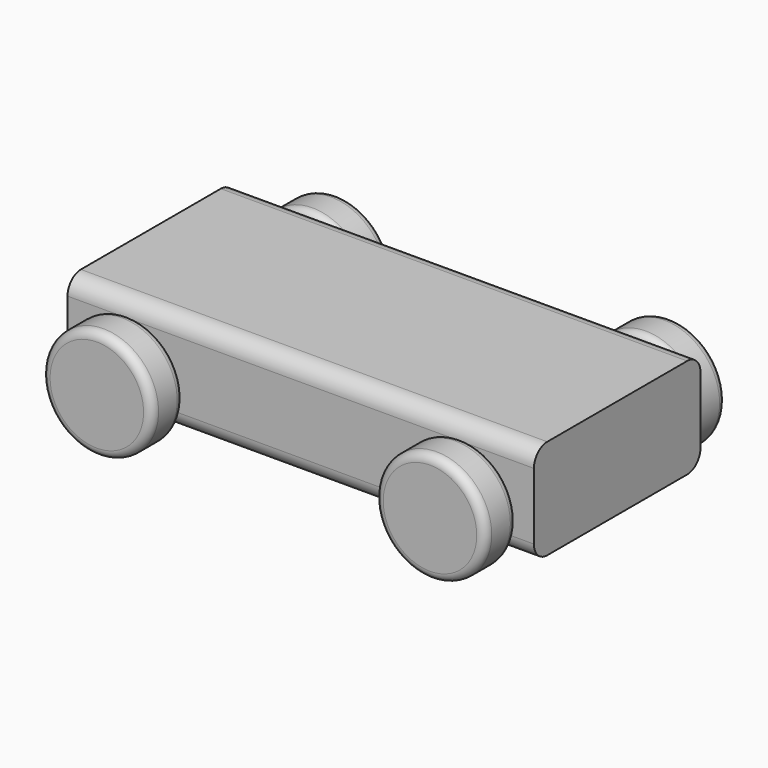
from build123d import *

# Parameters (mm, degrees)
F1_W     = 177.8
F1_H     = 38.1
F2_DEPTH = 39.6875
F4_R     = 21
F5_DEPTH = 15.24
F6_R     = 6.35
F7_R     = 3.175
F8_R     = 3.175
F10_R    = 6.35
F11_R    = 6.35


with BuildPart() as f2:
    # F1 (on Front) → F2 (new body, symmetric)
    with BuildSketch(Plane.XZ):
        Rectangle(F1_W, F1_H)
    extrude(amount=F2_DEPTH, both=True)

    # F6
    f6_edges = [f2.edges().sort_by_distance(p)[0] for p in [
        (0, -39.6875, 19.05),
    ]]
    fillet(f6_edges, radius=F6_R)

    # F10
    f10_edges = [f2.edges().sort_by_distance(p)[0] for p in [
        (0, -39.6875, -19.05),
        (0, 39.6875, 19.05),
    ]]
    fillet(f10_edges, radius=F10_R)

    # F11
    f11_edges = [f2.edges().sort_by_distance(p)[0] for p in [
        (0, 39.6875, -19.05),
    ]]
    fillet(f11_edges, radius=F11_R)


with BuildPart() as f5:
    # F4 (on offset) → F5 (new body)
    with BuildSketch(Plane.XZ.offset(42.2275)):
        with Locations((63.5, -5.035)):
            Circle(F4_R)
    extrude(amount=F5_DEPTH)

    # F7
    f7_edges = [f5.edges().sort_by_distance(p)[0] for p in [
        (42.5, -57.4675, -5.035),
    ]]
    fillet(f7_edges, radius=F7_R)

    # F8
    f8_edges = [f5.edges().sort_by_distance(p)[0] for p in [
        (42.5, -42.2275, -5.035),
    ]]
    fillet(f8_edges, radius=F8_R)


with BuildPart() as f9_1:
    # F9: instance of F5
    add(f5.part.mirror(Plane.XZ))


with BuildPart() as f12_1:
    # F12: instance of F5
    add(f5.part.mirror(Plane.YZ))


with BuildPart() as f12_2:
    # F12: instance of F9_1
    add(f9_1.part.mirror(Plane.YZ))


solid = Compound([f2.part, f5.part, f9_1.part, f12_1.part, f12_2.part])
